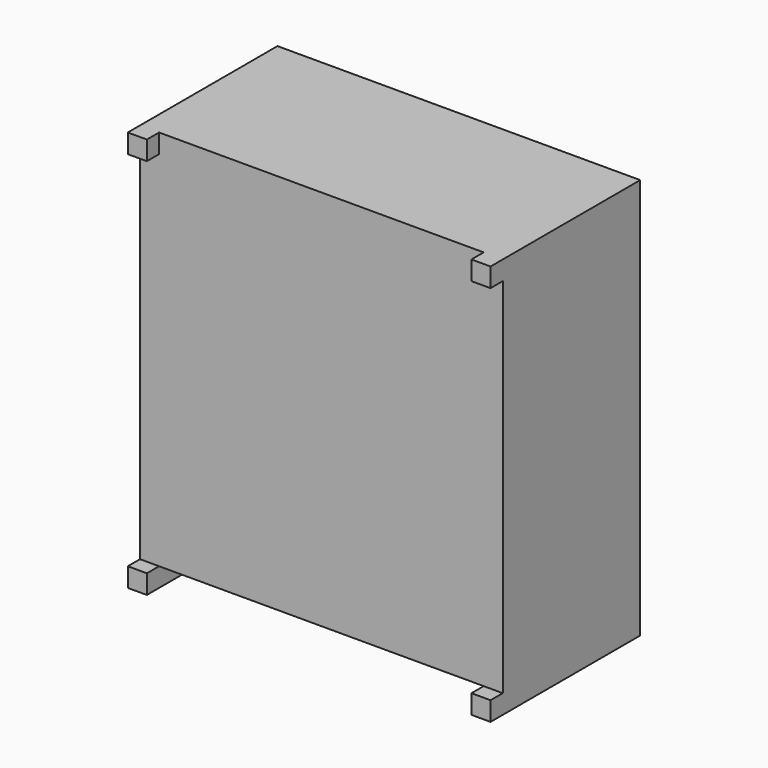
from build123d import *

# Parameters (mm, degrees)
SKETCH008_W  = 9.5
SKETCH008_H  = 4.5
PAD003_DEPTH = 10
SKETCH009_W  = 0.5
SKETCH009_H  = 0.5
PAD004_DEPTH = 0.4
SKETCH012_W  = 0.5
SKETCH012_H  = 4.9
PAD006_DEPTH = 0.5


with BuildPart() as part:
    # Sketch008 → Pad003 (new body)
    with BuildSketch(Plane.XY):
        Rectangle(SKETCH008_W, SKETCH008_H)
    extrude(amount=PAD003_DEPTH)

    # Sketch009 (on Face3 of Pad003) → Pad004 (join)
    with BuildSketch(Plane.XZ.offset(2.25)):
        with Locations((-4.5, 9.75)):
            Rectangle(SKETCH009_W, SKETCH009_H)
        with Locations((4.5, 9.75)):
            Rectangle(SKETCH009_W, SKETCH009_H)
    extrude(amount=PAD004_DEPTH)

    # Sketch012 (on Face4 of Pad004) → Pad006 (join)
    with BuildSketch(Plane(origin=(0, 0, 0), x_dir=(1, 0, 0), z_dir=(0, 0, -1))):
        with Locations((-4.5, 0.2)):
            Rectangle(SKETCH012_W, SKETCH012_H)
        with Locations((4.5, 0.2)):
            Rectangle(SKETCH012_W, SKETCH012_H)
    extrude(amount=PAD006_DEPTH)


solid = part.part
